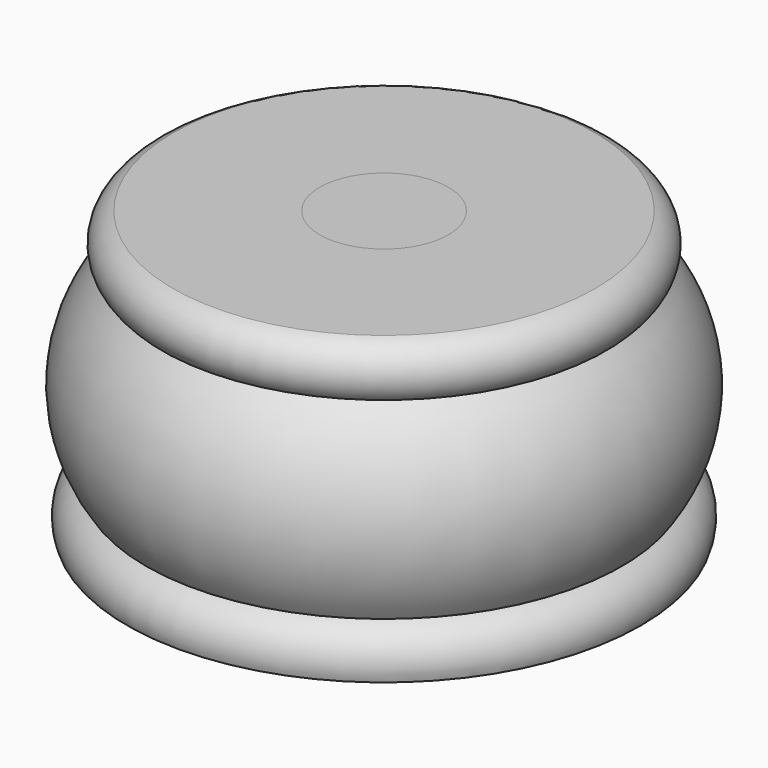
from build123d import *


with BuildPart() as f1:
    # F0 (on Front) → F1 (revolve)
    with BuildSketch(Plane.XZ):
        with BuildLine():
            Line((17.192411, 17), (8.330089, 17.014991))
            ThreePointArc((8.330089, 17.014991), (7.125937, 15.650705), (7.68038, 13.917544))
            ThreePointArc((7.68038, 13.917544), (5.162502, 8.526911), (6.703071, 2.780148))
            ThreePointArc((6.703071, 2.780148), (5.573739, 1.619384), (5.554749, 0))
            Line((5.554749, 0), (17.192411, 0))
            Line((17.192411, 0), (18.458235, 0))
            Line((18.458235, 0), (21.082066, 0))
            Line((21.082066, 0), (21.082066, 17))
            Line((21.082066, 17), (18.458235, 17))
            Line((18.458235, 17), (17.192411, 17))
        make_face()
    revolve(axis=Axis((21.082066, 0, 8.5), (0, 0, -1)))


solid = f1.part
